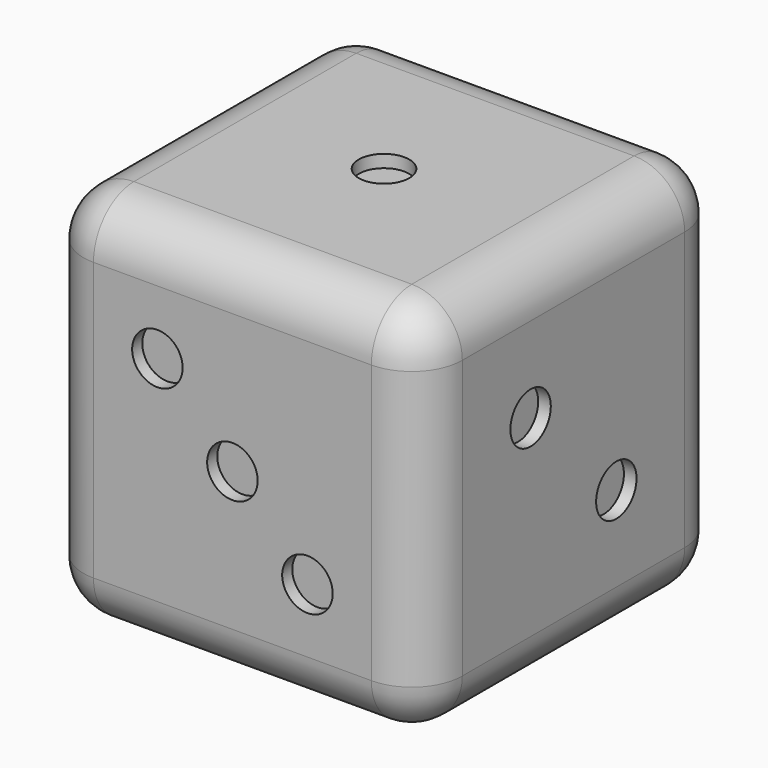
from build123d import *

# Parameters (mm, degrees)
F0_W      = 15
F0_H      = 15
F1_DEPTH  = 15
F2_R      = 2
F3_R      = 1
F4_DEPTH  = 0.5
F5_R      = 1
F6_DEPTH  = 0.5
F7_R      = 1
F8_DEPTH  = 0.5
F9_R      = 1
F10_DEPTH = 0.5
F11_R     = 1
F12_DEPTH = 0.5
F13_R     = 1
F14_DEPTH = 0.5


with BuildPart() as f1:
    # F0 (on Top) → F1 (new body)
    with BuildSketch(Plane.XY):
        with Locations((-7.5, 7.5)):
            Rectangle(F0_W, F0_H)
    extrude(amount=F1_DEPTH)

    # F2
    f2_edges = [f1.edges().sort_by_distance(p)[0] for p in [
        (-15, 15, 7.5),
        (0, 15, 7.5),
        (0, 0, 7.5),
        (-7.5, 0, 15),
        (-7.5, 15, 0),
        (-7.5, 15, 15),
        (-15, 0, 7.5),
        (-7.5, 0, 0),
        (0, 7.5, 0),
        (0, 7.5, 15),
        (-15, 7.5, 0),
        (-15, 7.5, 15),
    ]]
    fillet(f2_edges, radius=F2_R)

    # F3 (on face) → F4 (cut)
    with BuildSketch(Plane.XY.offset(15)):
        with Locations((-7.5, 7.5)):
            Circle(F3_R)
    extrude(amount=-F4_DEPTH, mode=Mode.SUBTRACT)

    # F5 (on face) → F6 (cut)
    with BuildSketch(Plane(origin=(0, 0, 0), x_dir=(1, 0, 0), z_dir=(0, 0, -1))):
        with Locations((-4.5, -10.5)):
            Circle(F5_R)
        with Locations((-7.5, -10.5)):
            Circle(F5_R)
        with Locations((-10.5, -10.5)):
            Circle(F5_R)
        with Locations((-10.5, -4.5)):
            Circle(F5_R)
        with Locations((-7.5, -4.5)):
            Circle(F5_R)
        with Locations((-4.5, -4.5)):
            Circle(F5_R)
    extrude(amount=-F6_DEPTH, mode=Mode.SUBTRACT)

    # F7 (on face) → F8 (cut)
    with BuildSketch(Plane(origin=(0, 15, 0), x_dir=(-1, 0, 0), z_dir=(0, 1, 0))):
        with Locations((10.5, 10.5)):
            Circle(F7_R)
        with Locations((4.5, 10.5)):
            Circle(F7_R)
        with Locations((4.5, 4.5)):
            Circle(F7_R)
        with Locations((10.5, 4.5)):
            Circle(F7_R)
    extrude(amount=-F8_DEPTH, mode=Mode.SUBTRACT)

    # F9 (on face) → F10 (cut)
    with BuildSketch(Plane.XZ):
        with Locations((-10.469848, 10.469848)):
            Circle(F9_R)
        with Locations((-7.5, 7.5)):
            Circle(F9_R)
        with Locations((-4.530152, 4.530152)):
            Circle(F9_R)
    extrude(amount=-F10_DEPTH, mode=Mode.SUBTRACT)

    # F11 (on face) → F12 (cut)
    with BuildSketch(Plane.YZ):
        with Locations((5.37868, 9.62132)):
            Circle(F11_R)
        with Locations((9.62132, 5.37868)):
            Circle(F11_R)
    extrude(amount=-F12_DEPTH, mode=Mode.SUBTRACT)

    # F13 (on face) → F14 (cut)
    with BuildSketch(Plane(origin=(-15, 0, 0), x_dir=(0, -1, 0), z_dir=(-1, 0, 0))):
        with Locations((-10.469848, 10.469848)):
            Circle(F13_R)
        with Locations((-4.530152, 10.469848)):
            Circle(F13_R)
        with Locations((-7.5, 7.5)):
            Circle(F13_R)
        with Locations((-10.469848, 4.530152)):
            Circle(F13_R)
        with Locations((-4.530152, 4.530152)):
            Circle(F13_R)
    extrude(amount=-F14_DEPTH, mode=Mode.SUBTRACT)


solid = f1.part
